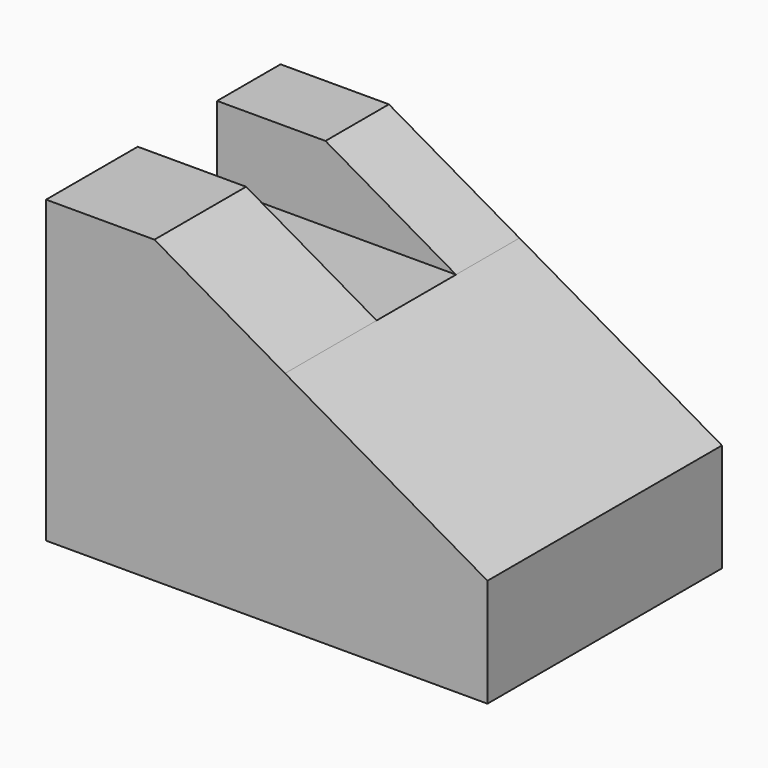
from build123d import *

# Parameters (mm, degrees)
F1_DEPTH = 70.6
F2_START = 19.1
F2_DEPTH = 23.9


with BuildPart() as f1:
    # F0 (on Front) → F1 (new body)
    with BuildSketch(Plane.XZ):
        Polygon((0, 54.1934408247), (0, 0), (106.326289475, 0), (106.326289475, 26.0729272559), (57.5547765156, 54.1934408247), align=None)
        Polygon((0, 72.3266080022), (0, 54.1934408247), (57.5547765156, 54.1934408247), (26.1050664731, 72.3266080022), align=None)
    extrude(amount=F1_DEPTH)

    # F0 (on Front) → F2 (cut)
    with BuildSketch(Plane.XZ.offset(F2_START)):
        Polygon((0, 72.3266080022), (0, 54.1934408247), (57.5547765156, 54.1934408247), (26.1050664731, 72.3266080022), align=None)
    extrude(amount=F2_DEPTH, mode=Mode.SUBTRACT)


solid = f1.part
